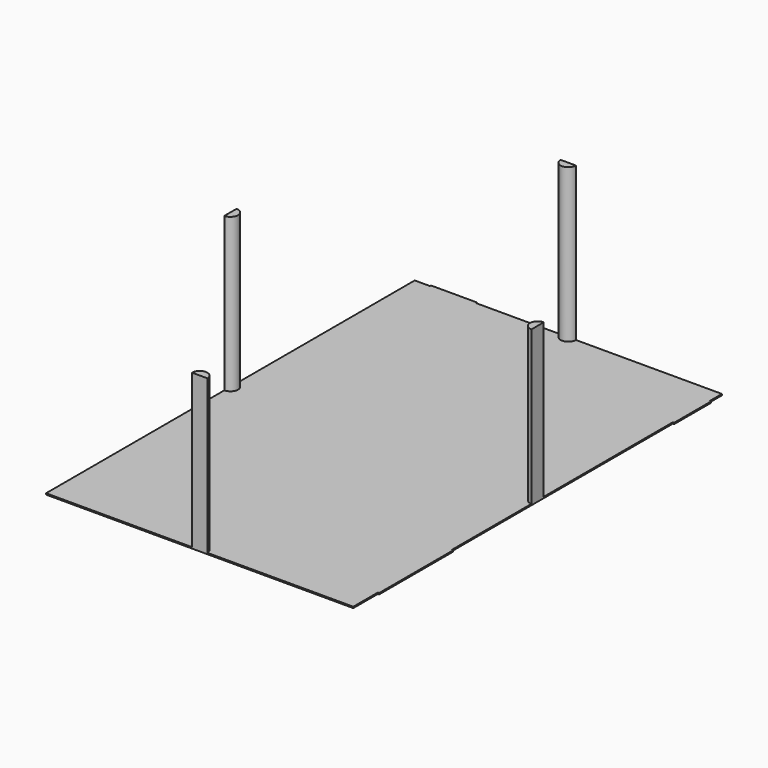
from build123d import *

# Parameters (mm, degrees)
F1_DEPTH = 25.4
F2_DEPTH = 3048
F3_W     = 914.4
F3_H     = 25.4
F3_W_2   = 1828.8
F4_DEPTH = 25.4
F5_W     = 914.4
F5_H     = 25.4
F6_DEPTH = 25.4


with BuildPart() as f1:
    # F0 (on Top) → F1 (new body)
    with BuildSketch(Plane.XY):
        with BuildLine():
            Line((2895.6, 0), (0, 0))
            Line((0, 0), (0, -4419.6))
            ThreePointArc((0, -4419.6), (152.4, -4572), (0, -4724.4))
            Line((0, -4724.4), (0, -9144))
            Line((0, -9144), (2895.6, -9144))
            ThreePointArc((2895.6, -9144), (3048, -8991.6), (3200.4, -9144))
            Line((3200.4, -9144), (6096, -9144))
            Line((6096, -9144), (6096, -4724.4))
            ThreePointArc((6096, -4724.4), (5943.6, -4572), (6096, -4419.6))
            Line((6096, -4419.6), (6096, 0))
            Line((6096, 0), (3200.4, 0))
            ThreePointArc((3200.4, 0), (3048, -152.4), (2895.6, 0))
        make_face()
        with BuildLine():
            Line((3200.4, 0), (2895.6, 0))
            ThreePointArc((2895.6, 0), (3048, -152.4), (3200.4, 0))
        make_face()
        with BuildLine():
            ThreePointArc((0, -4724.4), (152.4, -4572), (0, -4419.6))
            Line((0, -4419.6), (0, -4724.4))
        make_face()
        with BuildLine():
            Line((6096, -4724.4), (6096, -4419.6))
            ThreePointArc((6096, -4419.6), (5943.6, -4572), (6096, -4724.4))
        make_face()
        with BuildLine():
            ThreePointArc((3200.4, -9144), (3048, -8991.6), (2895.6, -9144))
            Line((2895.6, -9144), (3200.4, -9144))
        make_face()
    extrude(amount=-F1_DEPTH)

    # F0 (on Top) → F2 (join)
    with BuildSketch(Plane.XY):
        with BuildLine():
            ThreePointArc((0, -4724.4), (152.4, -4572), (0, -4419.6))
            Line((0, -4419.6), (0, -4724.4))
        make_face()
        with BuildLine():
            Line((6096, -4724.4), (6096, -4419.6))
            ThreePointArc((6096, -4419.6), (5943.6, -4572), (6096, -4724.4))
        make_face()
        with BuildLine():
            Line((3200.4, 0), (2895.6, 0))
            ThreePointArc((2895.6, 0), (3048, -152.4), (3200.4, 0))
        make_face()
        with BuildLine():
            ThreePointArc((3200.4, -9144), (3048, -8991.6), (2895.6, -9144))
            Line((2895.6, -9144), (3200.4, -9144))
        make_face()
    extrude(amount=F2_DEPTH)

    # F3 (on face) → F4 (join)
    with BuildSketch(Plane.YZ.offset(6096)):
        with Locations((-762, -12.7)):
            Rectangle(F3_W, F3_H)
        with Locations((-7620, -12.7)):
            Rectangle(F3_W_2, F3_H)
    extrude(amount=F4_DEPTH)

    # F5 (on face) → F6 (join)
    with BuildSketch(Plane(origin=(0, 0, 0), x_dir=(-1, 0, 0), z_dir=(0, 1, 0))):
        with Locations((-762, -12.7)):
            Rectangle(F5_W, F5_H)
    extrude(amount=F6_DEPTH)


solid = f1.part
